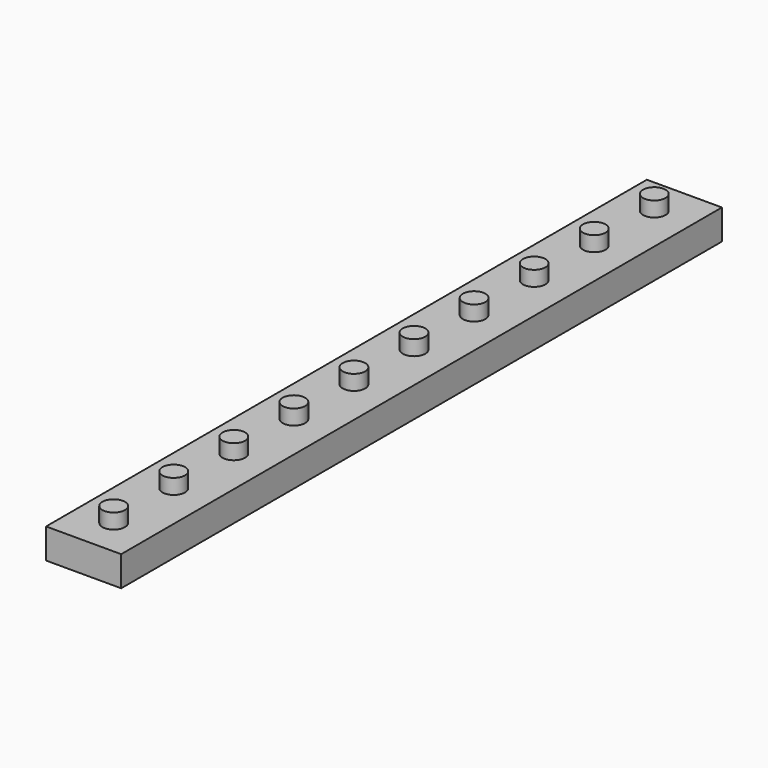
from build123d import *

# Parameters (mm, degrees)
F0_R     = 1.5
F1_DEPTH = 6
F0_W     = 10
F0_H     = 100
F2_DEPTH = 4


with BuildPart() as f1:
    # F0 (on Top) → F1 (new body)
    with BuildSketch(Plane.XY):
        with Locations((-14.885924, 62.19678)):
            Circle(F0_R)
        with Locations((-14.885924, 52.19678)):
            Circle(F0_R)
        with Locations((-14.885924, -17.80322)):
            Circle(F0_R)
        with Locations((-14.885924, -27.80322)):
            Circle(F0_R)
        with Locations((-14.885924, 42.19678)):
            Circle(F0_R)
        with Locations((-14.885924, 12.19678)):
            Circle(F0_R)
        with Locations((-14.885924, -7.80322)):
            Circle(F0_R)
        with Locations((-14.885924, 32.19678)):
            Circle(F0_R)
        with Locations((-14.885924, 22.19678)):
            Circle(F0_R)
        with Locations((-14.885924, 2.19678)):
            Circle(F0_R)
    extrude(amount=F1_DEPTH)

    # F0 (on Top) → F2 (join)
    with BuildSketch(Plane.XY):
        with Locations((-14.885924, 17.19678)):
            Rectangle(F0_W, F0_H)
        with Locations((-14.885924, -17.80322)):
            Circle(F0_R, mode=Mode.SUBTRACT)
        with Locations((-14.885924, -7.80322)):
            Circle(F0_R, mode=Mode.SUBTRACT)
        with Locations((-14.885924, 2.19678)):
            Circle(F0_R, mode=Mode.SUBTRACT)
        with Locations((-14.885924, 12.19678)):
            Circle(F0_R, mode=Mode.SUBTRACT)
        with Locations((-14.885924, -27.80322)):
            Circle(F0_R, mode=Mode.SUBTRACT)
        with Locations((-14.885924, 22.19678)):
            Circle(F0_R, mode=Mode.SUBTRACT)
        with Locations((-14.885924, 32.19678)):
            Circle(F0_R, mode=Mode.SUBTRACT)
        with Locations((-14.885924, 42.19678)):
            Circle(F0_R, mode=Mode.SUBTRACT)
        with Locations((-14.885924, 52.19678)):
            Circle(F0_R, mode=Mode.SUBTRACT)
        with Locations((-14.885924, 62.19678)):
            Circle(F0_R, mode=Mode.SUBTRACT)
    extrude(amount=F2_DEPTH)


solid = f1.part
